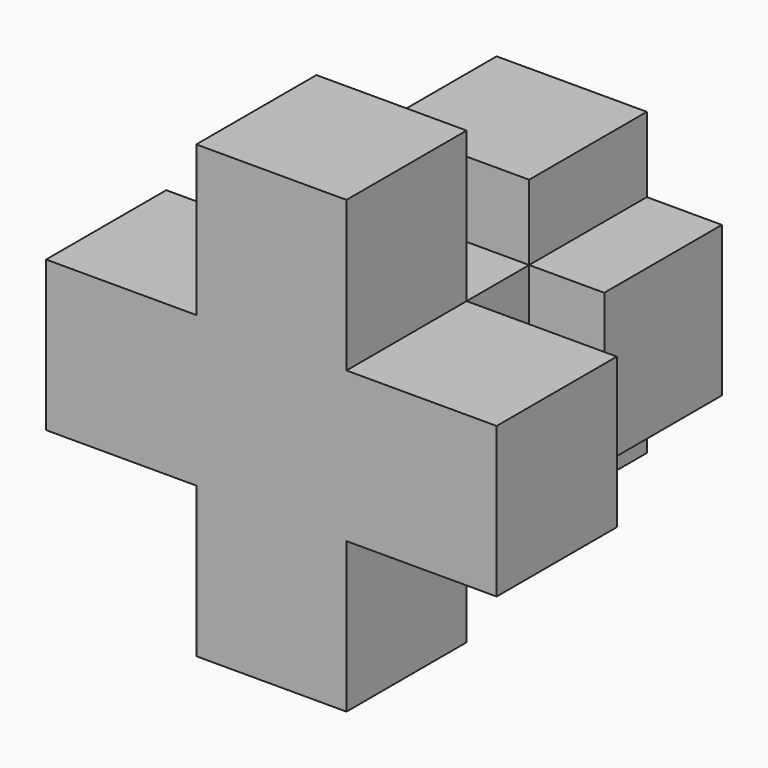
from build123d import *

# Parameters (mm, degrees)
F0_W      = 2
F0_H      = 2
F1_DEPTH  = 5
F2_W      = 2
F2_H      = 2
F3_DEPTH  = 2
F4_W      = 2
F4_H      = 1.958706
F5_DEPTH  = 1
F6_W      = 1.958706
F6_H      = 2
F7_DEPTH  = 1
F8_W      = 2
F8_H      = 2
F9_DEPTH  = 2
F10_W     = 2
F10_H     = 2
F11_DEPTH = 2
F12_W     = 2
F12_H     = 1.958706
F13_DEPTH = 1
F14_W     = 2
F14_H     = 2
F15_DEPTH = 2
F16_W     = 1.958706
F16_H     = 2
F17_DEPTH = 1


with BuildPart() as f1:
    # F0 (on Front) → F1 (new body)
    with BuildSketch(Plane.XZ):
        Rectangle(F0_W, F0_H)
    extrude(amount=F1_DEPTH)

    # F2 (on face) → F3 (join)
    with BuildSketch(Plane(origin=(0, 0, -1), x_dir=(1, 0, 0), z_dir=(0, 0, -1))):
        with Locations((0, 4)):
            Rectangle(F2_W, F2_H)
    extrude(amount=F3_DEPTH)

    # F4 (on face) → F5 (join)
    with BuildSketch(Plane(origin=(0, 0, -1), x_dir=(1, 0, 0), z_dir=(0, 0, -1))):
        with Locations((0, 0.979353)):
            Rectangle(F4_W, F4_H)
    extrude(amount=F5_DEPTH)

    # F6 (on face) → F7 (join)
    with BuildSketch(Plane(origin=(-1, 0, 0), x_dir=(0, -1, 0), z_dir=(-1, 0, 0))):
        with Locations((0.979353, 0)):
            Rectangle(F6_W, F6_H)
    extrude(amount=F7_DEPTH)

    # F8 (on face) → F9 (join)
    with BuildSketch(Plane(origin=(-1, 0, 0), x_dir=(0, -1, 0), z_dir=(-1, 0, 0))):
        with Locations((4, 0)):
            Rectangle(F8_W, F8_H)
    extrude(amount=F9_DEPTH)

    # F10 (on face) → F11 (join)
    with BuildSketch(Plane.XY.offset(1)):
        with Locations((0, -4)):
            Rectangle(F10_W, F10_H)
    extrude(amount=F11_DEPTH)

    # F12 (on face) → F13 (join)
    with BuildSketch(Plane.XY.offset(1)):
        with Locations((0, -0.979353)):
            Rectangle(F12_W, F12_H)
    extrude(amount=F13_DEPTH)

    # F14 (on face) → F15 (join)
    with BuildSketch(Plane.YZ.offset(1)):
        with Locations((-4, 0)):
            Rectangle(F14_W, F14_H)
    extrude(amount=F15_DEPTH)

    # F16 (on face) → F17 (join)
    with BuildSketch(Plane.YZ.offset(1)):
        with Locations((-0.979353, 0)):
            Rectangle(F16_W, F16_H)
    extrude(amount=F17_DEPTH)


solid = f1.part
